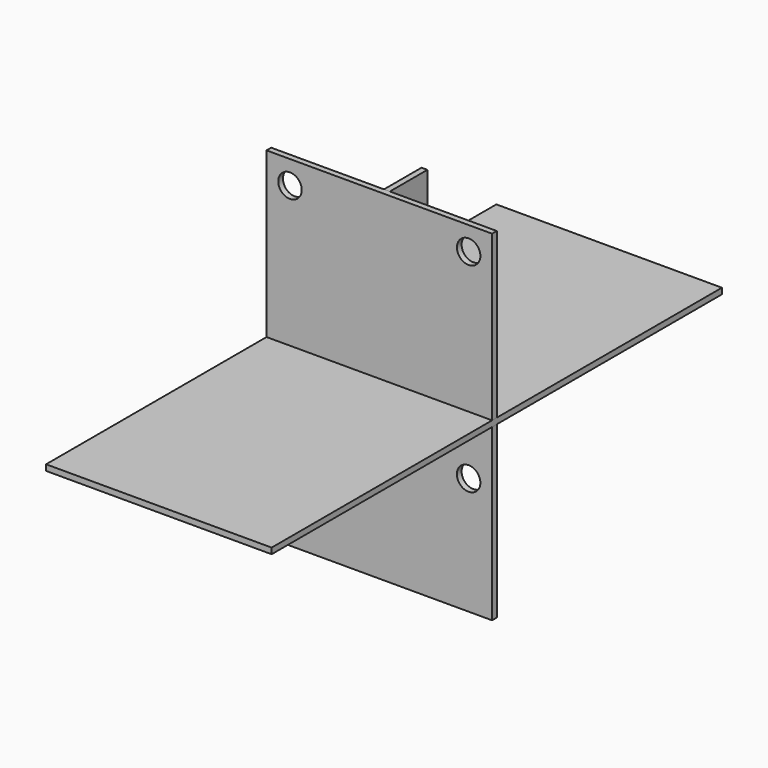
from build123d import *

# Parameters (mm, degrees)
F1_W      = 101.6
F1_H      = 101.6
F1_R      = 9
F2_DEPTH  = 12.7
F4_DEPTH  = 12.7
F5_W      = 488.6
F5_H      = 737.31
F6_DEPTH  = 12.7
F7_W      = 488.6
F7_H      = 1219.2
F8_DEPTH  = 12.7
F9_R      = 25.4
F10_DEPTH = 622.301


with BuildPart() as f2:
    # F1 (on Front) → F2 (new body)
    with BuildSketch(Plane.XZ):
        Rectangle(F1_W, F1_H)
        Circle(F1_R, mode=Mode.SUBTRACT)
    extrude(amount=F2_DEPTH)


with BuildPart() as f4:
    # F3 (on Right) → F4 (new body)
    with BuildSketch(Plane.YZ):
        with BuildLine():
            Line((101.6, 368.6555), (0, 368.6555))
            Line((0, 368.6555), (0, -368.6555))
            Line((0, -368.6555), (101.6, -368.6555))
            Line((101.6, -368.6555), (101.6, -63.8555))
            ThreePointArc((101.6, -63.8555), (63.5, 101.6), (101.6, 267.0555))
            Line((101.6, 267.0555), (101.6, 368.6555))
        make_face()
    extrude(amount=F4_DEPTH)


with BuildPart() as f6:
    # F5 (on Front) → F6 (new body)
    with BuildSketch(Plane.XZ):
        Rectangle(F5_W, F5_H)
    extrude(amount=F6_DEPTH)

    # F9 (on face) → F10 (cut, through all)
    with BuildSketch(Plane.XZ.offset(12.7)):
        with Locations((-193.5, 317.855)):
            Circle(F9_R)
        with Locations((193.5, 317.855)):
            Circle(F9_R)
        with Locations((-193.5, -114.656)):
            Circle(F9_R)
        with Locations((193.5, -114.656)):
            Circle(F9_R)
    extrude(amount=-F10_DEPTH, mode=Mode.SUBTRACT)


with BuildPart() as f8:
    # F7 (on Top) → F8 (new body)
    with BuildSketch(Plane.XY):
        Rectangle(F7_W, F7_H)
    extrude(amount=F8_DEPTH)


solid = Compound([f2.part, f4.part, f6.part, f8.part])
